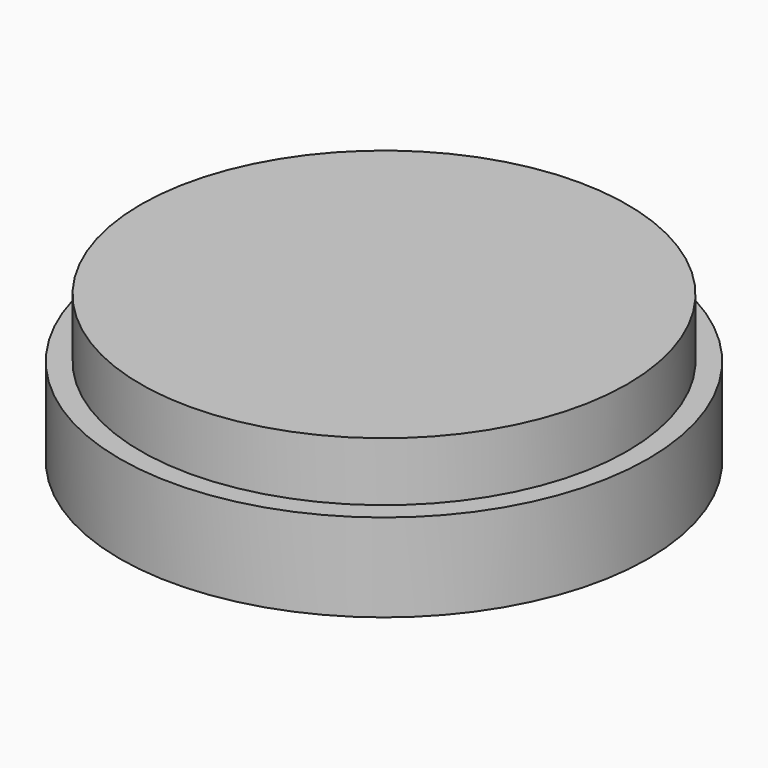
from build123d import *

# Parameters (mm, degrees)
F0_R     = 76.278336
F1_DEPTH = 25.4
F2_R     = 70.25419
F3_DEPTH = 42.418


with BuildPart() as f1:
    # F0 (on Top) → F1 (new body)
    with BuildSketch(Plane.XY):
        Circle(F0_R)
        Polygon((-28.511346, 4.547807), (-27.67382, 8.230377), (-26.362786, 11.772124), (-24.600679, 15.112446), (-22.417646, 18.19419), (-19.851042, 20.964626), (-16.944781, 23.376351), (-13.74859, 25.388101), (-10.317157, 26.965454), (-6.709194, 28.08142), (-2.986435, 28.716905), (0.787423, 28.861036), (4.547807, 28.511346), (8.230377, 27.67382), (11.772124, 26.362786), (15.112446, 24.600679), (18.19419, 22.417646), (20.964626, 19.851042), (23.376351, 16.944781), (25.388101, 13.74859), (26.965454, 10.317157), (28.08142, 6.709194), (28.716905, 2.986435), (28.861036, -0.787423), (28.511346, -4.547807), (27.67382, -8.230377), (26.362786, -11.772124), (24.600679, -15.112446), (22.417646, -18.19419), (19.851042, -20.964626), (16.944781, -23.376351), (13.74859, -25.388101), (10.317157, -26.965454), (6.709194, -28.08142), (2.986435, -28.716905), (-0.787423, -28.861036), (-4.547807, -28.511346), (-8.230377, -27.67382), (-11.772124, -26.362786), (-15.112446, -24.600679), (-18.19419, -22.417646), (-20.964626, -19.851042), (-23.376351, -16.944781), (-25.388101, -13.74859), (-26.965454, -10.317157), (-28.08142, -6.709194), (-28.716905, -2.986435), (-28.861036, 0.787423), align=None, mode=Mode.SUBTRACT)
    extrude(amount=F1_DEPTH)


with BuildPart() as f3:
    # F2 (on Top) → F3 (new body)
    with BuildSketch(Plane.XY):
        Circle(F2_R)
    extrude(amount=F3_DEPTH)


solid = Compound([f1.part, f3.part])
